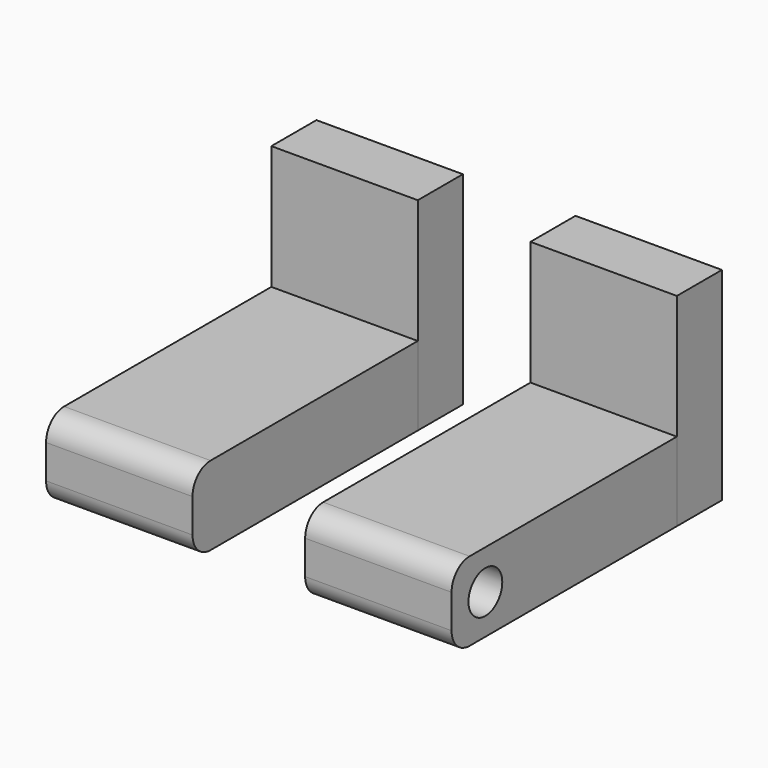
from build123d import *

# Parameters (mm, degrees)
F1_DEPTH = 25.4
F3_DEPTH = 127
F4_R     = 9.525
F5_DEPTH = 38.1
F6_R     = 9.525
F7_DEPTH = 38.1
F8_R     = 10.16
F9_R     = 10.16


with BuildPart() as f1:
    # F0 (on Front) → F1 (new body)
    with BuildSketch(Plane.XZ):
        Polygon((-229.916182, 150.382031), (-229.916182, 125.75157), (-229.916182, 58.942031), (-163.876182, 58.942031), (-163.876182, 150.382031), align=None)
        Polygon((-280.716182, 150.382031), (-346.756182, 150.382031), (-346.756182, 58.942031), (-280.716182, 58.942031), (-280.716182, 125.75157), align=None)
    extrude(amount=F1_DEPTH)


with BuildPart() as f3:
    # F2 (on face) → F3 (new body)
    with BuildSketch(Plane.XZ.offset(25.4)):
        Polygon((-229.916182, 94.502031), (-229.916182, 72.495423), (-229.916182, 58.942031), (-163.876182, 58.942031), (-163.876182, 94.502031), align=None)
        Polygon((-280.716182, 94.502031), (-346.756182, 94.502031), (-346.756182, 58.942031), (-280.716182, 58.942031), (-280.716182, 72.495423), align=None)
    extrude(amount=F3_DEPTH)

    # F4 (on face) → F5 (cut)
    with BuildSketch(Plane.YZ.offset(-163.876182)):
        with Locations((-133.35, 76.722031)):
            Circle(F4_R)
    extrude(amount=-F5_DEPTH, mode=Mode.SUBTRACT)

    # F6 (on face) → F7 (cut)
    with BuildSketch(Plane(origin=(-346.756182, 0, 0), x_dir=(0, -1, 0), z_dir=(-1, 0, 0))):
        with Locations((133.35, 76.722031)):
            Circle(F6_R)
    extrude(amount=-F7_DEPTH, mode=Mode.SUBTRACT)

    # F8
    f8_edges = [f3.edges().sort_by_distance(p)[0] for p in [
        (-313.736182, -152.4, 94.502031),
        (-313.736182, -152.4, 58.942031),
    ]]
    fillet(f8_edges, radius=F8_R)

    # F9
    f9_edges = [f3.edges().sort_by_distance(p)[0] for p in [
        (-196.896182, -152.4, 58.942031),
        (-196.896182, -152.4, 94.502031),
    ]]
    fillet(f9_edges, radius=F9_R)


solid = Compound([f1.part, f3.part])
